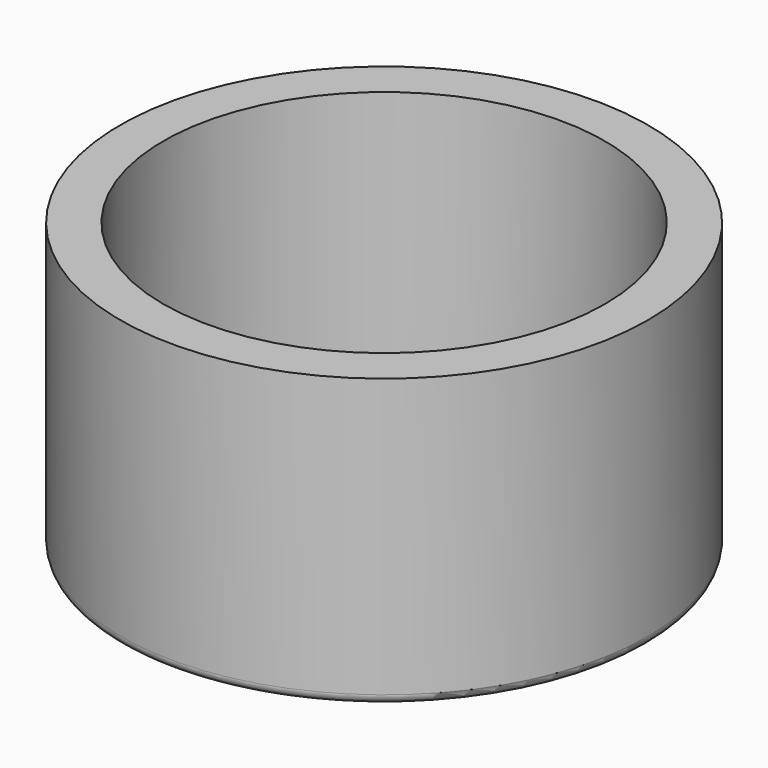
from build123d import *

# Parameters (mm, degrees)
F0_R     = 13.97
F1_DEPTH = 15.24
F2_T     = -2.286
F3_R     = 0.508
F4_R     = 0.508


with BuildPart() as f1:
    # F0 (on Top) → F1 (new body)
    with BuildSketch(Plane.XY):
        Circle(F0_R)
        Circle(F0_R)
    extrude(amount=F1_DEPTH)

    # F2
    f2_openings = [f1.faces().sort_by_distance(p)[0] for p in [
        (0, 0, 15.24),
    ]]
    offset(amount=F2_T, openings=f2_openings)

    # F3
    f3_edges = [f1.edges().sort_by_distance(p)[0] for p in [
        (-11.684, 0, 2.286),
    ]]
    fillet(f3_edges, radius=F3_R)

    # F4
    f4_edges = [f1.edges().sort_by_distance(p)[0] for p in [
        (-13.97, 0, 0),
    ]]
    fillet(f4_edges, radius=F4_R)


solid = f1.part
